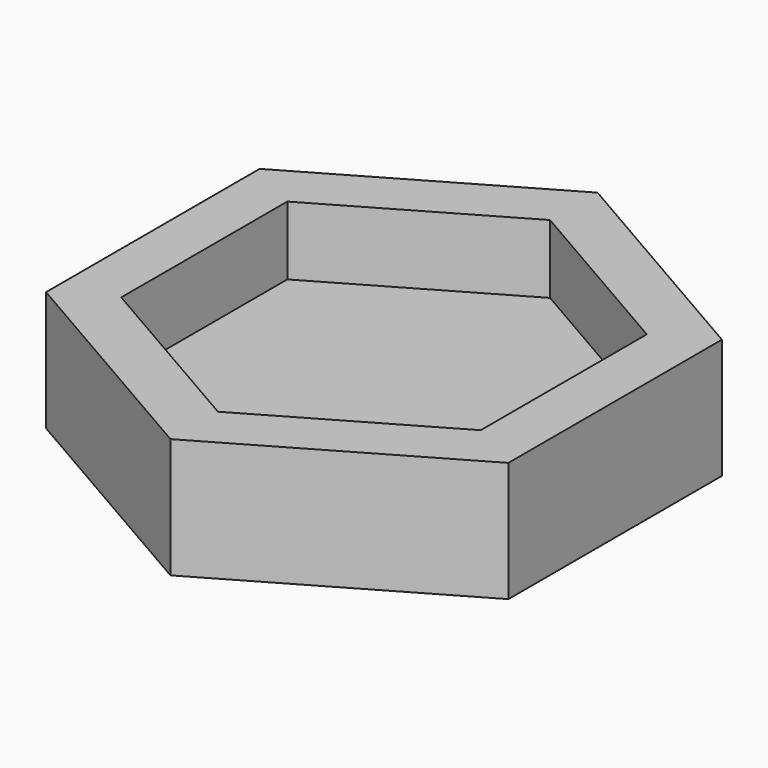
from build123d import *

# Parameters (mm, degrees)
F1_DEPTH = 3
F2_DEPTH = 7


with BuildPart() as f1:
    # F0 (on Top) → F1 (new body)
    with BuildSketch(Plane.XY):
        Polygon((-13.49, 7.788455), (-13.49, -7.788455), (0, -15.57691), (13.49, -7.788455), (13.49, 7.788455), (0, 15.57691), align=None)
        Polygon((0, 12.112809), (10.49, 6.056404), (10.49, -6.056404), (0, -12.112809), (-10.49, -6.056404), (-10.49, 6.056404), align=None, mode=Mode.SUBTRACT)
        Polygon((10.49, -6.056404), (10.49, 6.056404), (0, 12.112809), (-10.49, 6.056404), (-10.49, -6.056404), (0, -12.112809), align=None)
    extrude(amount=F1_DEPTH)

    # F0 (on Top) → F2 (join)
    with BuildSketch(Plane.XY):
        Polygon((-13.49, 7.788455), (-13.49, -7.788455), (0, -15.57691), (13.49, -7.788455), (13.49, 7.788455), (0, 15.57691), align=None)
        Polygon((0, 12.112809), (10.49, 6.056404), (10.49, -6.056404), (0, -12.112809), (-10.49, -6.056404), (-10.49, 6.056404), align=None, mode=Mode.SUBTRACT)
    extrude(amount=F2_DEPTH)


solid = f1.part
